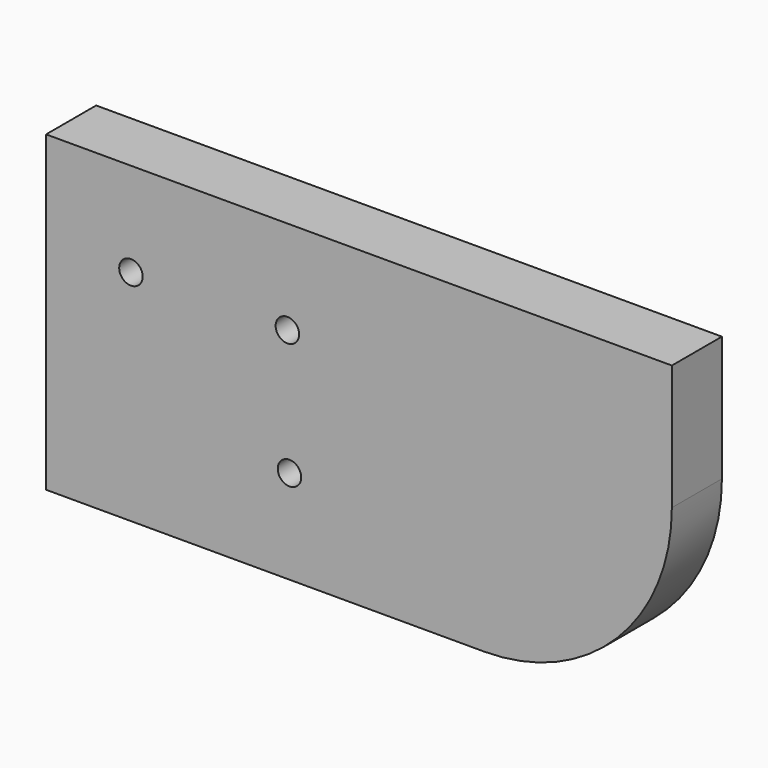
from build123d import *

# Parameters (mm, degrees)
F0_R     = 4.7625
F1_DEPTH = 25.4


with BuildPart() as f1:
    # F0 (on Front) → F1 (new body)
    with BuildSketch(Plane.XZ):
        with BuildLine():
            Line((78.83209, -431.098897), (-175.16791, -431.098897))
            Line((-175.16791, -431.098897), (-175.16791, -558.098897))
            Line((-175.16791, -558.098897), (2.63209, -558.098897))
            ThreePointArc((2.63209, -558.098897), (56.513626, -535.780434), (78.83209, -481.898897))
            Line((78.83209, -481.898897), (78.83209, -431.098897))
        make_face()
        with Locations((-76.372668, -519.998897)):
            Circle(F0_R, mode=Mode.SUBTRACT)
        with Locations((-140.729388, -469.198897)):
            Circle(F0_R, mode=Mode.SUBTRACT)
        with Locations((-77.229388, -469.198897)):
            Circle(F0_R, mode=Mode.SUBTRACT)
    extrude(amount=F1_DEPTH)


solid = f1.part
